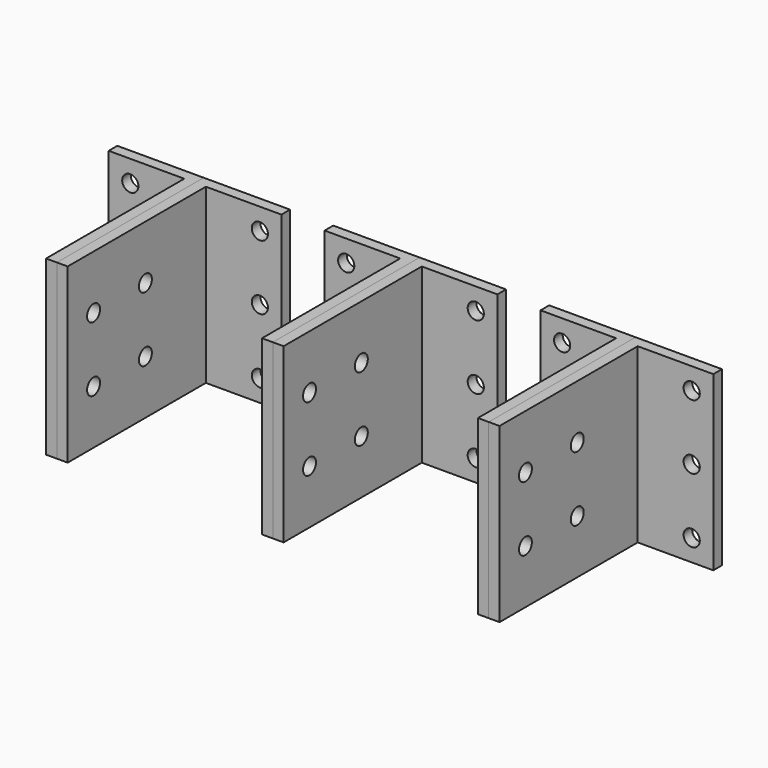
from build123d import *

# Parameters (mm, degrees)
F2_DEPTH = 50.8
F3_R     = 4.7625
F4_DEPTH = 6.351
F5_R     = 4.7625
F6_DEPTH = 311.151


with BuildPart() as f2:
    # F0 (on Top) → F2 (new body, symmetric)
    with BuildSketch(Plane.XY):
        Polygon((-44.45, 6.35), (-44.45, 0), (0, 0), (0, -101.6), (6.35, -101.6), (6.35, 6.35), align=None)
    extrude(amount=F2_DEPTH, both=True)


with BuildPart() as f2b:
    # F0 (on Top) → F2, piece 2 (new body, symmetric)
    with BuildSketch(Plane.XY):
        Polygon((82.55, 6.35), (82.55, 0), (127, 0), (127, -101.6), (133.35, -101.6), (133.35, 6.35), align=None)
    extrude(amount=F2_DEPTH, both=True)


with BuildPart() as f2c:
    # F0 (on Top) → F2, piece 3 (new body, symmetric)
    with BuildSketch(Plane.XY):
        Polygon((209.55, 6.35), (209.55, 0), (254, 0), (254, -101.6), (260.35, -101.6), (260.35, 6.35), align=None)
    extrude(amount=F2_DEPTH, both=True)


with BuildPart() as f2d:
    # F1 (on Top) → F2, piece 4 (new body, symmetric)
    with BuildSketch(Plane.XY):
        Polygon((57.15, 6.35), (6.35, 6.35), (6.35, -101.6), (12.7, -101.6), (12.7, 0), (57.15, 0), align=None)
    extrude(amount=F2_DEPTH, both=True)


with BuildPart() as f2e:
    # F1 (on Top) → F2, piece 5 (new body, symmetric)
    with BuildSketch(Plane.XY):
        Polygon((184.15, 6.35), (133.35, 6.35), (133.35, -101.6), (139.7, -101.6), (139.7, 0), (184.15, 0), align=None)
    extrude(amount=F2_DEPTH, both=True)


with BuildPart() as f2f:
    # F1 (on Top) → F2, piece 6 (new body, symmetric)
    with BuildSketch(Plane.XY):
        Polygon((311.15, 6.35), (260.35, 6.35), (260.35, -101.6), (266.7, -101.6), (266.7, 0), (311.15, 0), align=None)
    extrude(amount=F2_DEPTH, both=True)


with BuildPart() as f4_tool:
    # F3 (on face) → F4 (new body, through all)
    with BuildSketch(Plane.XZ):
        with Locations((-31.75, 38.1)):
            Circle(F3_R)
        with Locations((-31.75, 0)):
            Circle(F3_R)
        with Locations((-31.75, -38.1)):
            Circle(F3_R)
        with Locations((44.45, 38.1)):
            Circle(F3_R)
        with Locations((44.45, 0)):
            Circle(F3_R)
        with Locations((44.45, -38.1)):
            Circle(F3_R)
        with Locations((95.25, -38.1)):
            Circle(F3_R)
        with Locations((171.45, 38.1)):
            Circle(F3_R)
        with Locations((171.45, 0)):
            Circle(F3_R)
        with Locations((171.45, -38.1)):
            Circle(F3_R)
        with Locations((95.25, 38.1)):
            Circle(F3_R)
        with Locations((95.25, 0)):
            Circle(F3_R)
        with Locations((222.25, -38.1)):
            Circle(F3_R)
        with Locations((298.45, 38.1)):
            Circle(F3_R)
        with Locations((298.45, 0)):
            Circle(F3_R)
        with Locations((298.45, -38.1)):
            Circle(F3_R)
        with Locations((222.25, 38.1)):
            Circle(F3_R)
        with Locations((222.25, 0)):
            Circle(F3_R)
    extrude(amount=-F4_DEPTH)


with BuildPart() as f2_1:
    add(f2.part)

    # F4: cut by f4_tool
    add(f4_tool.part, mode=Mode.SUBTRACT)


with BuildPart() as f2b_1:
    add(f2b.part)

    # F4: cut by f4_tool
    add(f4_tool.part, mode=Mode.SUBTRACT)


with BuildPart() as f2c_1:
    add(f2c.part)

    # F4: cut by f4_tool
    add(f4_tool.part, mode=Mode.SUBTRACT)


with BuildPart() as f2d_1:
    add(f2d.part)

    # F4: cut by f4_tool
    add(f4_tool.part, mode=Mode.SUBTRACT)


with BuildPart() as f2e_1:
    add(f2e.part)

    # F4: cut by f4_tool
    add(f4_tool.part, mode=Mode.SUBTRACT)


with BuildPart() as f2f_1:
    add(f2f.part)

    # F4: cut by f4_tool
    add(f4_tool.part, mode=Mode.SUBTRACT)


with BuildPart() as f6_tool:
    # F5 (on face) → F6 (new body, through all)
    with BuildSketch(Plane(origin=(0, 0, 0), x_dir=(0, -1, 0), z_dir=(-1, 0, 0))):
        with Locations((82.55, 19.05)):
            Circle(F5_R)
        with Locations((82.55, -19.05)):
            Circle(F5_R)
        with Locations((44.45, 19.05)):
            Circle(F5_R)
        with Locations((44.45, -19.05)):
            Circle(F5_R)
    extrude(amount=-F6_DEPTH)


with BuildPart() as f2_2:
    add(f2_1.part)

    # F6: cut by f6_tool
    add(f6_tool.part, mode=Mode.SUBTRACT)


with BuildPart() as f2b_2:
    add(f2b_1.part)

    # F6: cut by f6_tool
    add(f6_tool.part, mode=Mode.SUBTRACT)


with BuildPart() as f2c_2:
    add(f2c_1.part)

    # F6: cut by f6_tool
    add(f6_tool.part, mode=Mode.SUBTRACT)


with BuildPart() as f2d_2:
    add(f2d_1.part)

    # F6: cut by f6_tool
    add(f6_tool.part, mode=Mode.SUBTRACT)


with BuildPart() as f2e_2:
    add(f2e_1.part)

    # F6: cut by f6_tool
    add(f6_tool.part, mode=Mode.SUBTRACT)


with BuildPart() as f2f_2:
    add(f2f_1.part)

    # F6: cut by f6_tool
    add(f6_tool.part, mode=Mode.SUBTRACT)


solid = Compound([f2_2.part, f2b_2.part, f2c_2.part, f2d_2.part, f2e_2.part, f2f_2.part])
